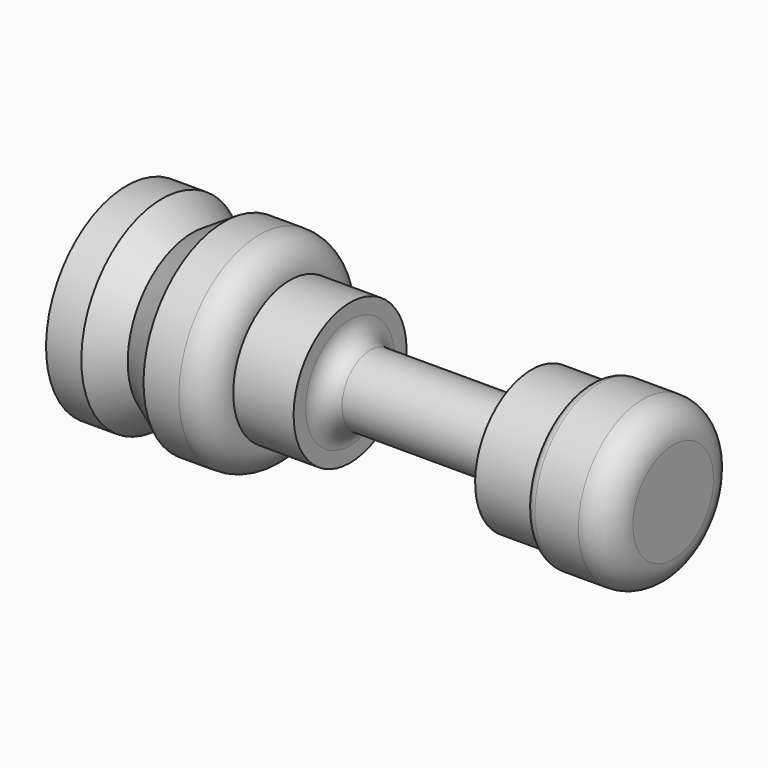
from build123d import *

# Parameters (mm, degrees)
F0_W = 3.5
F0_H = 10


with BuildPart() as f1:
    # F0 (on Front) → F1 (revolve)
    with BuildSketch(Plane.XZ):
        with Locations((-27.040292, -5)):
            Rectangle(F0_W, F0_H)
        with BuildLine():
            Line((25.394248, 0), (0, 0))
            Line((0, 0), (-19.124782, 0))
            Line((-19.124782, 0), (-19.124782, -10))
            Line((-19.124782, -10), (-15.624782, -10))
            ThreePointArc((-15.624782, -10), (-13.503462, -9.12132), (-12.624782, -7))
            Line((-12.624782, -7), (-6.64254, -7))
            Line((-6.64254, -7), (-6.64254, -5.5))
            ThreePointArc((-6.64254, -5.5), (-6.056754, -4.085786), (-4.64254, -3.5))
            Line((-4.64254, -3.5), (9.35746, -3.5))
            ThreePointArc((9.35746, -3.5), (10.771674, -4.085786), (11.35746, -5.5))
            Line((11.35746, -5.5), (11.35746, -7))
            Line((11.35746, -7), (17.089432, -7))
            ThreePointArc((17.089432, -7), (17.382325, -7.707107), (18.089432, -8))
            Line((18.089432, -8), (22.394248, -8))
            ThreePointArc((22.394248, -8), (24.515568, -7.12132), (25.394248, -5))
            Line((25.394248, -5), (25.394248, 0))
        make_face()
        Polygon((-22.290292, -8), (-22.290292, 0), (-25.290292, 0), (-25.290292, -10), align=None)
        Polygon((-19.124782, -10), (-19.124782, 0), (-22.290292, 0), (-22.290292, -8), align=None)
    revolve(axis=Axis((-5.965252, 0, 0), (1, 0, 0)))


solid = f1.part
